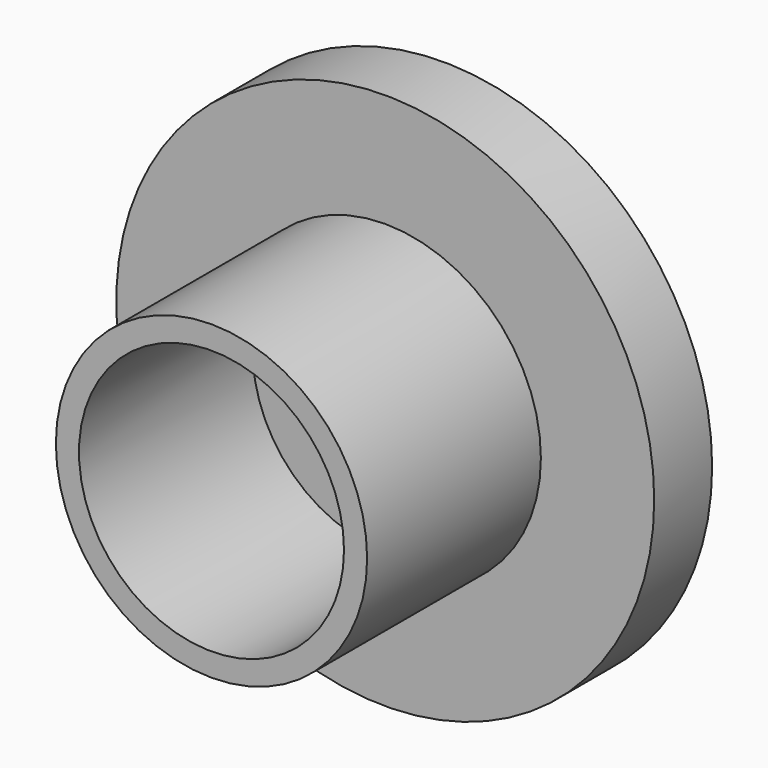
from build123d import *

# Parameters (mm, degrees)
F0_R     = 11.135875
F1_DEPTH = 2.9972
F2_R     = 6.443487
F2_R_2   = 5.485631
F3_DEPTH = 11.9888


with BuildPart() as f1:
    # F0 (on Front) → F1 (new body)
    with BuildSketch(Plane.XZ):
        Circle(F0_R)
    extrude(amount=F1_DEPTH)

    # F2 (on Front) → F3 (join)
    with BuildSketch(Plane.XZ):
        Circle(F2_R)
        Circle(F2_R_2, mode=Mode.SUBTRACT)
    extrude(amount=F3_DEPTH)


solid = f1.part
